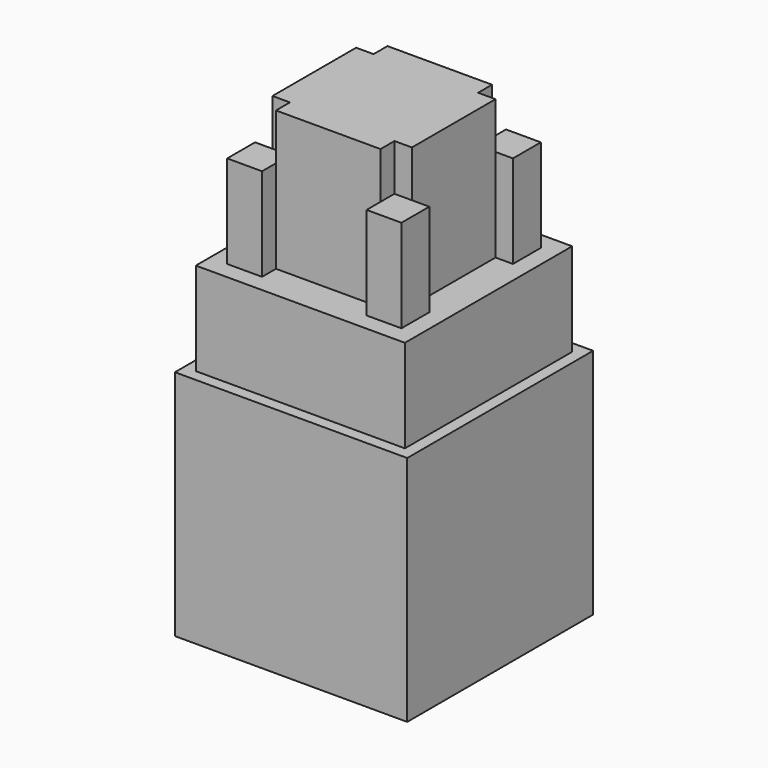
from build123d import *

# Parameters (mm, degrees)
F1_DEPTH = 254
F0_W     = 9.525
F0_H     = 9.525
F2_DEPTH = 228.6
F0_W_2   = 114.3
F0_H_2   = 114.3
F3_DEPTH = 177.8
F0_W_3   = 127
F0_H_3   = 127
F4_DEPTH = 127


with BuildPart() as f1:
    # F0 (on Top) → F1 (new body)
    with BuildSketch(Plane.XY):
        Polygon((28.575, 38.1), (-28.575, 38.1), (-28.575, 28.575), (-38.1, 28.575), (-38.1, -28.575), (-28.575, -28.575), (-28.575, -38.1), (28.575, -38.1), (28.575, -28.575), (38.1, -28.575), (38.1, 28.575), (28.575, 28.575), align=None)
    extrude(amount=F1_DEPTH)

    # F0 (on Top) → F2 (join)
    with BuildSketch(Plane.XY):
        Polygon((-38.1, 28.575), (-38.1, 38.1), (-28.575, 38.1), (-28.575, 47.625), (-47.625, 47.625), (-47.625, 28.575), align=None)
        with Locations((-33.3375, 33.3375)):
            Rectangle(F0_W, F0_H)
        Polygon((-38.1, -38.1), (-38.1, -28.575), (-47.625, -28.575), (-47.625, -47.625), (-28.575, -47.625), (-28.575, -38.1), align=None)
        with Locations((-33.3375, -33.3375)):
            Rectangle(F0_W, F0_H)
        Polygon((47.625, -28.575), (38.1, -28.575), (38.1, -38.1), (28.575, -38.1), (28.575, -47.625), (47.625, -47.625), align=None)
        with Locations((33.3375, -33.3375)):
            Rectangle(F0_W, F0_H)
        Polygon((28.575, 47.625), (28.575, 38.1), (38.1, 38.1), (38.1, 28.575), (47.625, 28.575), (47.625, 47.625), align=None)
        with Locations((33.3375, 33.3375)):
            Rectangle(F0_W, F0_H)
    extrude(amount=F2_DEPTH)

    # F0 (on Top) → F3 (join)
    with BuildSketch(Plane.XY):
        Rectangle(F0_W_2, F0_H_2)
        Polygon((-28.575, 47.625), (-28.575, 38.1), (28.575, 38.1), (28.575, 47.625), (47.625, 47.625), (47.625, 28.575), (38.1, 28.575), (38.1, -28.575), (47.625, -28.575), (47.625, -47.625), (28.575, -47.625), (28.575, -38.1), (-28.575, -38.1), (-28.575, -47.625), (-47.625, -47.625), (-47.625, -28.575), (-38.1, -28.575), (-38.1, 28.575), (-47.625, 28.575), (-47.625, 47.625), align=None, mode=Mode.SUBTRACT)
    extrude(amount=F3_DEPTH)

    # F0 (on Top) → F4 (join)
    with BuildSketch(Plane.XY):
        Rectangle(F0_W_3, F0_H_3)
        Rectangle(F0_W_2, F0_H_2, mode=Mode.SUBTRACT)
    extrude(amount=F4_DEPTH)


solid = f1.part
